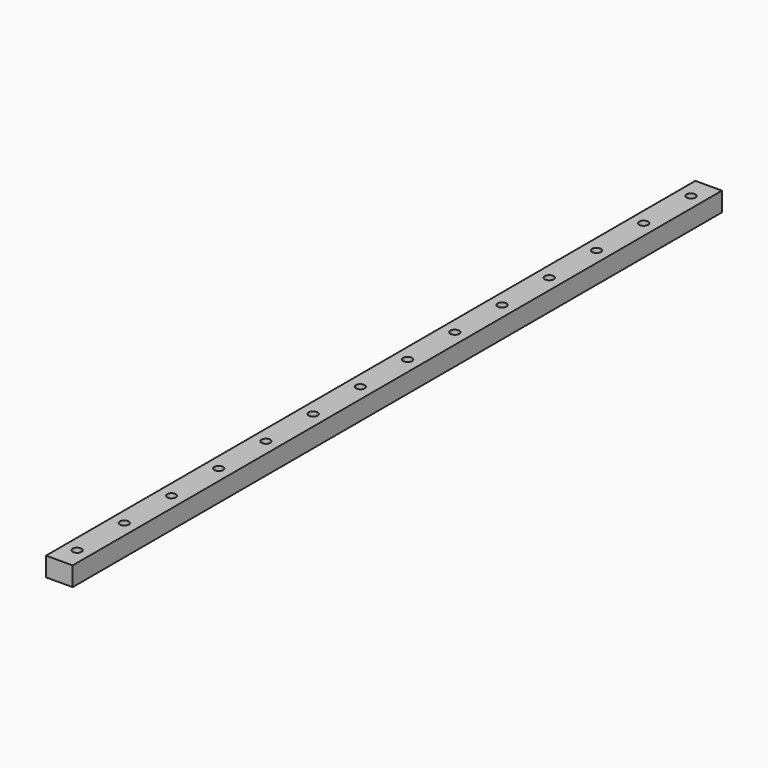
from build123d import *

# Parameters (mm, degrees)
SKETCH068_W            = 9
SKETCH068_H            = 275
PAD022_DEPTH           = 6.5
SKETCH067_R            = 1.5
POCKET041_DEPTH        = 6.5
LINEARPATTERN009_COUNT = 14
LINEARPATTERN009_PITCH = 20


with BuildPart() as part:
    # Sketch068 → Pad022 (new body)
    with BuildSketch(Plane.XY):
        with Locations((-4.5, 137.5)):
            Rectangle(SKETCH068_W, SKETCH068_H)
    extrude(amount=PAD022_DEPTH)

    # Sketch067 (on Face6 of Pad022) → Pocket041 (cut)
    with BuildSketch(Plane.XY.offset(6.5)):
        with Locations((-4.5, 7.5)):
            Circle(SKETCH067_R)
    pocket041 = extrude(amount=-POCKET041_DEPTH, mode=Mode.SUBTRACT)

    # LinearPattern009: Pocket041 ×14
    with Locations(*[(0, i * LINEARPATTERN009_PITCH, 0) for i in range(1, LINEARPATTERN009_COUNT)]):
        add(pocket041, mode=Mode.SUBTRACT)


solid = part.part
